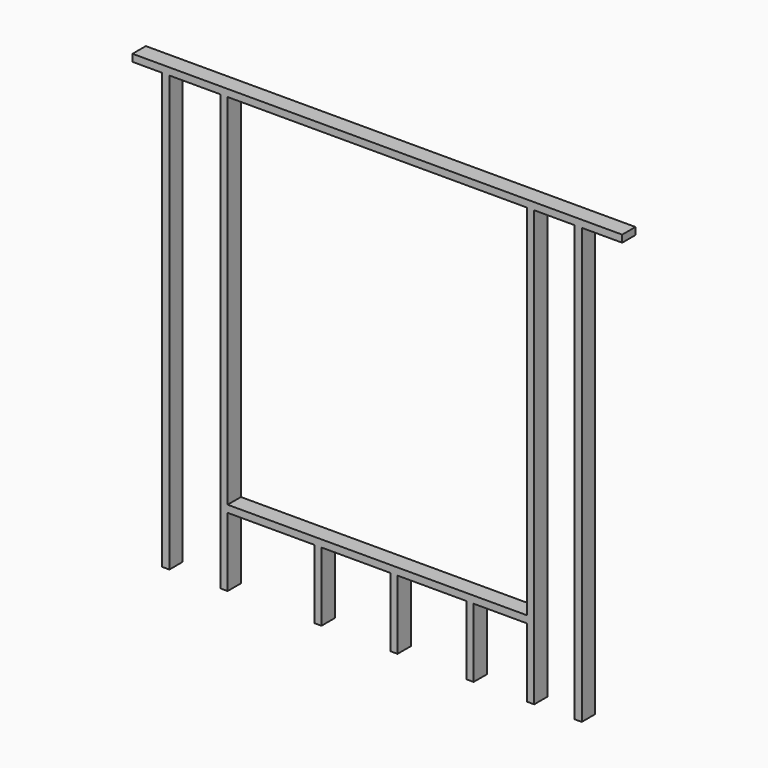
from build123d import *

# Parameters (mm, degrees)
F0_W     = 38.1
F0_H     = 368.3
F0_H_2   = 2324.1
F1_DEPTH = 88.9


with BuildPart() as f1:
    # F0 (on Front) → F1 (new body)
    with BuildSketch(Plane.XZ):
        with Locations((495.3, -996.95)):
            Rectangle(F0_W, F0_H)
        with Locations((88.9, -996.95)):
            Rectangle(F0_W, F0_H)
        with Locations((-317.5, -996.95)):
            Rectangle(F0_W, F0_H)
        with Locations((-1130.3, -19.05)):
            Rectangle(F0_W, F0_H_2)
        with Locations((1073.15, -19.05)):
            Rectangle(F0_W, F0_H_2)
        Polygon((838.2, 1143), (800.1, 1143), (800.1, -774.7), (800.1, -812.8), (800.1, -1181.1), (838.2, -1181.1), align=None)
        Polygon((-838.2, 1143), (-838.2, -1181.1), (-800.1, -1181.1), (-800.1, -812.8), (-800.1, -774.7), (-800.1, 1143), align=None)
        Polygon((-1308.1, 1181.1), (-1308.1, 1143), (-1149.35, 1143), (-1111.25, 1143), (-838.2, 1143), (-800.1, 1143), (800.1, 1143), (838.2, 1143), (1054.1, 1143), (1092.2, 1143), (1308.1, 1143), (1308.1, 1181.1), align=None)
        Polygon((-800.1, -774.7), (-800.1, -812.8), (-336.55, -812.8), (-298.45, -812.8), (69.85, -812.8), (107.95, -812.8), (476.25, -812.8), (514.35, -812.8), (800.1, -812.8), (800.1, -774.7), align=None)
    extrude(amount=F1_DEPTH)


solid = f1.part
